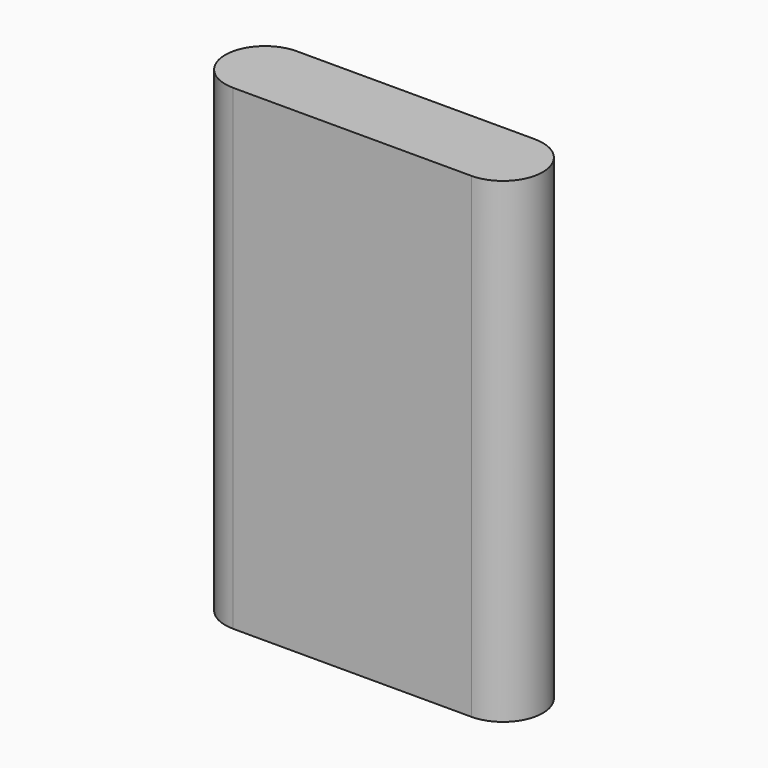
from build123d import *

# Parameters (mm, degrees)
F1_DEPTH = 60


with BuildPart() as f1:
    # F0 (on Top) → F1 (new body, symmetric)
    with BuildSketch(Plane.XY):
        with BuildLine():
            ThreePointArc((-20, 0), (-22.9289321881, 7.0710678119), (-30, 10))
            Line((-30, 10), (-30, 0))
            Line((-30, 0), (-20, 0))
        make_face()
        with BuildLine():
            Line((30, 10), (-30, 10))
            ThreePointArc((-30, 10), (-22.9289321881, 7.0710678119), (-20, 0))
            Line((-20, 0), (20, 0))
            ThreePointArc((20, 0), (22.9289321881, 7.0710678119), (30, 10))
        make_face()
        with BuildLine():
            Line((-30, 0), (-30, 10))
            ThreePointArc((-30, 10), (-40, 0), (-30, -10))
            Line((-30, -10), (-30, 0))
        make_face()
        with BuildLine():
            ThreePointArc((40, 0), (37.0710678119, 7.0710678119), (30, 10))
            Line((30, 10), (30, 0))
            Line((30, 0), (30, -10))
            ThreePointArc((30, -10), (37.0710678119, -7.0710678119), (40, 0))
        make_face()
        with BuildLine():
            Line((30, 0), (30, 10))
            ThreePointArc((30, 10), (22.9289321881, 7.0710678119), (20, 0))
            Line((20, 0), (30, 0))
        make_face()
        with BuildLine():
            Line((-20, 0), (-30, 0))
            Line((-30, 0), (-30, -10))
            ThreePointArc((-30, -10), (-22.9289321881, -7.0710678119), (-20, 0))
        make_face()
        with BuildLine():
            Line((20, 0), (-20, 0))
            ThreePointArc((-20, 0), (-22.9289321881, -7.0710678119), (-30, -10))
            Line((-30, -10), (30, -10))
            ThreePointArc((30, -10), (22.9289321881, -7.0710678119), (20, 0))
        make_face()
        with BuildLine():
            Line((30, -10), (30, 0))
            Line((30, 0), (20, 0))
            ThreePointArc((20, 0), (22.9289321881, -7.0710678119), (30, -10))
        make_face()
    extrude(amount=F1_DEPTH, both=True)


solid = f1.part
